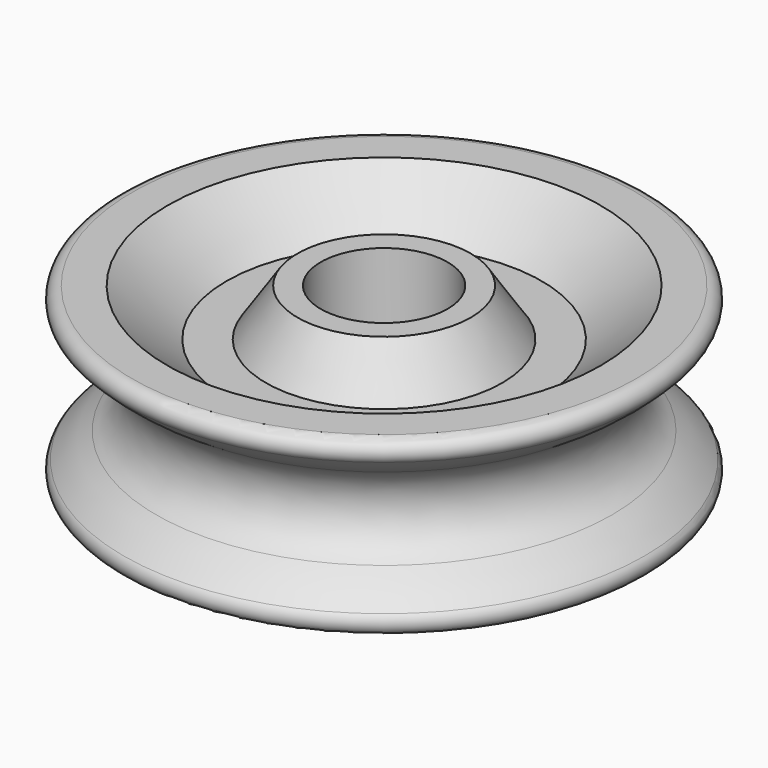
from build123d import *


with BuildPart() as f1:
    # F0 (on Front) → F1 (revolve)
    with BuildSketch(Plane.XZ):
        with BuildLine():
            ThreePointArc((28.932282, 5.214557), (31.10832, 6.695693), (33.070995, 8.449776))
            ThreePointArc((33.070995, 8.449776), (33.382992, 10.080803), (32, 11))
            Line((32, 11), (27.5, 11))
            Line((27.5, 11), (20.003827, 5))
            Line((20.003827, 5), (15.003827, 5))
            Line((15.003827, 5), (11, 11))
            Line((11, 11), (8.05, 11))
            Line((8.05, 11), (8.05, -11))
            Line((8.05, -11), (11, -11))
            Line((11, -11), (15.003827, -5))
            Line((15.003827, -5), (20.003827, -5))
            Line((20.003827, -5), (27.5, -11))
            Line((27.5, -11), (32, -11))
            ThreePointArc((32, -11), (33.382992, -10.080803), (33.070995, -8.449776))
            ThreePointArc((33.070995, -8.449776), (31.10832, -6.695693), (28.932282, -5.214557))
            ThreePointArc((28.932282, -5.214557), (25.95, 0), (28.932282, 5.214557))
        make_face()
    revolve(axis=Axis((0, 0, 3.578788), (0, 0, -1)))


solid = f1.part
